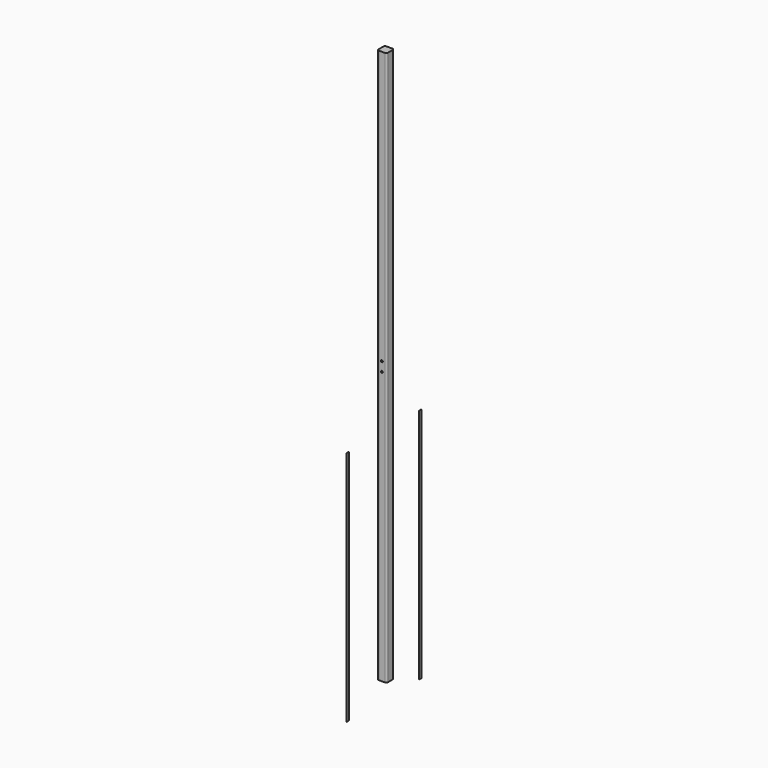
from build123d import *

# Parameters (mm, degrees)
F1_DEPTH = 2260.6
F2_W     = 12.7
F2_H     = 965.2
F4_DEPTH = 0.254
F3_W     = 12.7
F3_H     = 965.2
F5_DEPTH = 0.254
F7_DEPTH = 38.1


with BuildPart() as f1:
    # F0 (on Top) → F1 (new body)
    with BuildSketch(Plane.XY):
        with BuildLine():
            ThreePointArc((19.05, 12.7), (17.190128, 17.190128), (12.7, 19.05))
            Line((12.7, 19.05), (-12.7, 19.05))
            ThreePointArc((-12.7, 19.05), (-17.190128, 17.190128), (-19.05, 12.7))
            Line((-19.05, 12.7), (-19.05, -12.7))
            ThreePointArc((-19.05, -12.7), (-17.190128, -17.190128), (-12.7, -19.05))
            Line((-12.7, -19.05), (12.7, -19.05))
            ThreePointArc((12.7, -19.05), (17.190128, -17.190128), (19.05, -12.7))
            Line((19.05, -12.7), (19.05, 12.7))
        make_face()
    extrude(amount=F1_DEPTH)

    # F6 (on face) → F7 (cut)
    with BuildSketch(Plane.XZ.offset(19.05)):
        with BuildLine():
            ThreePointArc((0, 1115.06), (-3.81, 1111.25), (0, 1107.44))
            Line((0, 1107.44), (0, 1111.25))
            Line((0, 1111.25), (0, 1115.06))
        make_face()
        with BuildLine():
            ThreePointArc((3.81, 1149.35), (-2.694077, 1152.044077), (0, 1145.54))
            ThreePointArc((0, 1145.54), (2.694077, 1146.655923), (3.81, 1149.35))
        make_face()
        with BuildLine():
            Line((0, 1111.25), (0, 1107.44))
            ThreePointArc((0, 1107.44), (2.694077, 1108.555923), (3.81, 1111.25))
            ThreePointArc((3.81, 1111.25), (2.694077, 1113.944077), (0, 1115.06))
            Line((0, 1115.06), (0, 1111.25))
        make_face()
    extrude(amount=-F7_DEPTH, mode=Mode.SUBTRACT)


with BuildPart() as f4:
    # F2 (on Right) → F4 (new body)
    with BuildSketch(Plane.YZ):
        with Locations((-192.550282, 409.951065)):
            Rectangle(F2_W, F2_H)
    extrude(amount=F4_DEPTH)


with BuildPart() as f5:
    # F3 (on Right) → F5 (new body)
    with BuildSketch(Plane.YZ):
        with Locations((175.864179, 412.127815)):
            Rectangle(F3_W, F3_H)
    extrude(amount=F5_DEPTH)


solid = Compound([f1.part, f4.part, f5.part])
